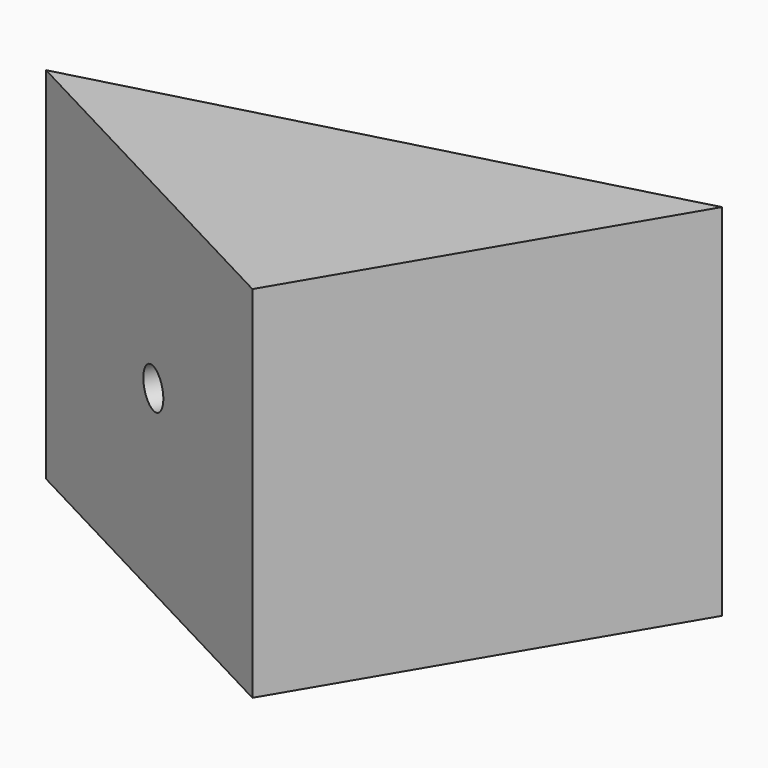
from build123d import *

# Parameters (mm, degrees)
F1_DEPTH = 58.42
F3_D     = 6.35


with BuildPart() as f1:
    # F0 (on Top) → F1 (new body)
    with BuildSketch(Plane.XY):
        Polygon((0, -30.590609), (32.415953, 24.170706), (-57.969742, 0), align=None)
    extrude(amount=F1_DEPTH)

    # F3 (through all)
    with Locations(Plane(origin=(-12.62657, -23.927573, 0), x_dir=(0.884413, -0.466705, 0), z_dir=(-0.466705, -0.884413, 0))):
        with Locations((-17.201742, 29.21)):
            Hole(F3_D / 2)


solid = f1.part
